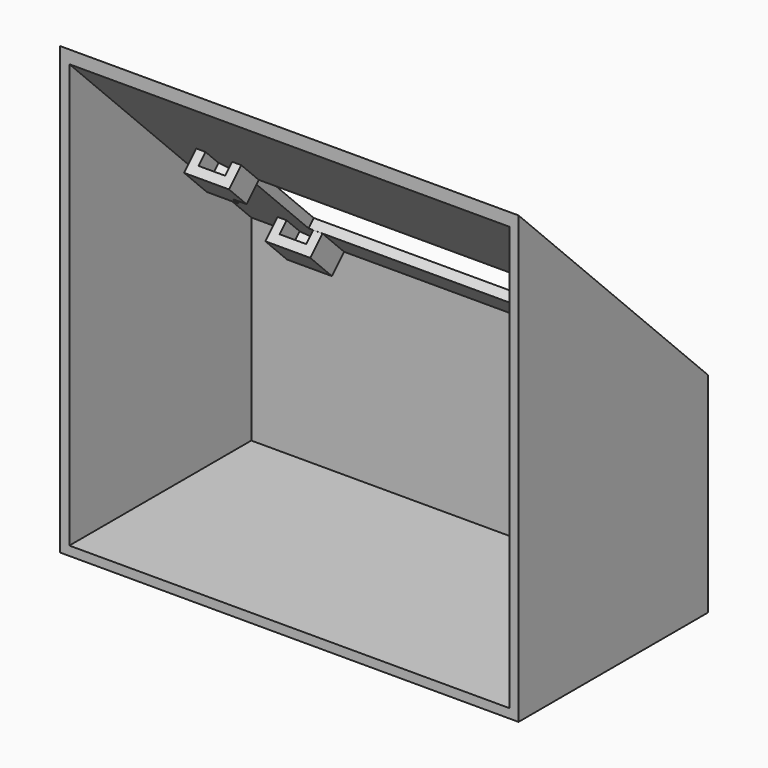
from build123d import *

# Parameters (mm, degrees)
F2_DEPTH  = 45
F4_DEPTH  = 10
F6_T      = -2
F5_W      = 71.5
F5_H      = 24.5
F7_DEPTH  = 2
F9_DEPTH  = 2.7
F11_DEPTH = 2


with BuildPart() as f2:
    # F1 (on Right) → F2 (new body, symmetric)
    with BuildSketch(Plane.YZ):
        Polygon((51.6187950266, -51.6187950266), (0, 0), (0, -97.2855082581), (51.6187950266, -97.2855082581), align=None)
    extrude(amount=F2_DEPTH, both=True)

    # F3 (on face) → F4 (join)
    with BuildSketch(Plane(origin=(-45, 0, 0), x_dir=(0, -1, 0), z_dir=(-1, 0, 0))):
        Polygon((-51.6187950266, -51.6187950266), (-51.6187950266, -97.2855082581), (0, -97.2855082581), (0, 0), align=None)
    extrude(amount=F4_DEPTH)

    # F6
    f6_openings = [f2.faces().sort_by_distance(p)[0] for p in [
        (-5, 0, -48.642754),
    ]]
    offset(amount=F6_T, openings=f6_openings)

    # F5 (on face) → F7 (cut, through all)
    with BuildSketch(Plane(origin=(0, 0, 0), x_dir=(-1, 0, 0), z_dir=(0, 0.7071067812, 0.7071067812))):
        with Locations((0, -51.5)):
            Rectangle(F5_W, F5_H)
    extrude(amount=-F7_DEPTH, mode=Mode.SUBTRACT)

    # F8 (on face) → F9 (join)
    with BuildSketch(Plane(origin=(0, -1.4142135624, -1.4142135624), x_dir=(1, 0, 0), z_dir=(0, -0.7071067812, -0.7071067812))):
        Polygon((-32.75, -63.8013684387), (-34.75, -63.8013684387), (-34.75, -65.4756842194), (-34.75, -68.8243157807), (-37.65, -70.4986315613), (-40.55, -68.8243157807), (-40.55, -65.4756842194), (-40.55, -63.8013684387), (-42.55, -63.8013684387), (-42.55, -72.1715728753), (-32.75, -72.1715728753), align=None)
        Polygon((-40.55, -32.5013684387), (-42.55, -32.5013684387), (-42.55, -39.25), (-42.55, -41.25), (-35.75, -41.25), (-35.75, -39.25), (-32.75, -39.25), (-32.75, -32.5013684387), (-34.75, -32.5013684387), (-34.75, -37.5243157807), (-37.65, -39.1986315613), (-40.55, -37.5243157807), align=None)
        Polygon((32.75, -32.5013684387), (32.75, -39.25), (35.75, -39.25), (35.75, -41.25), (42.55, -41.25), (42.55, -39.25), (42.55, -32.5013684387), (40.55, -32.5013684387), (40.55, -37.5243157807), (37.65, -39.1986315613), (34.75, -37.5243157807), (34.75, -32.5013684387), align=None)
        Polygon((34.75, -65.4756842194), (34.75, -63.8013684387), (32.75, -63.8013684387), (32.75, -72.1715728753), (42.55, -72.1715728753), (42.55, -63.8013684387), (40.55, -63.8013684387), (40.55, -65.4756842194), (40.55, -68.8243157807), (37.65, -70.4986315613), (34.75, -68.8243157807), align=None)
    extrude(amount=F9_DEPTH)

    # F10 (on face) → F11 (join)
    with BuildSketch(Plane(origin=(0, -3.3234018716, -3.3234018716), x_dir=(1, 0, 0), z_dir=(0, -0.7071067812, -0.7071067812))):
        Polygon((-42.55, -32.5013684387), (-42.55, -41.25), (-35.75, -41.25), (-35.75, -39.25), (-32.75, -39.25), (-32.75, -32.5013684387), align=None)
        Polygon((32.75, -39.25), (35.75, -39.25), (35.75, -41.25), (42.55, -41.25), (42.55, -32.5013684387), (40.55, -32.5013684387), (40.55, -37.5243157807), (37.65, -39.1986315613), (34.75, -37.5243157807), (34.75, -32.5013684387), (32.75, -32.5013684387), align=None)
        Polygon((40.55, -32.5013684387), (34.75, -32.5013684387), (34.75, -37.5243157807), (37.65, -39.1986315613), (40.55, -37.5243157807), align=None)
        Polygon((37.65, -70.4986315613), (34.75, -68.8243157807), (34.75, -63.8013684387), (32.75, -63.8013684387), (32.75, -72.1715728753), (42.55, -72.1715728753), (42.55, -63.8013684387), (40.55, -63.8013684387), (40.55, -68.8243157807), align=None)
        Polygon((34.75, -63.8013684387), (34.75, -68.8243157807), (37.65, -70.4986315613), (40.55, -68.8243157807), (40.55, -63.8013684387), align=None)
        Polygon((-42.55, -72.1715728753), (-32.75, -72.1715728753), (-32.75, -63.8013684387), (-34.75, -63.8013684387), (-34.75, -68.8243157807), (-37.65, -70.4986315613), (-40.55, -68.8243157807), (-40.55, -63.8013684387), (-42.55, -63.8013684387), align=None)
        Polygon((-34.75, -68.8243157807), (-34.75, -63.8013684387), (-40.55, -63.8013684387), (-40.55, -68.8243157807), (-37.65, -70.4986315613), align=None)
    extrude(amount=F11_DEPTH)


solid = f2.part
